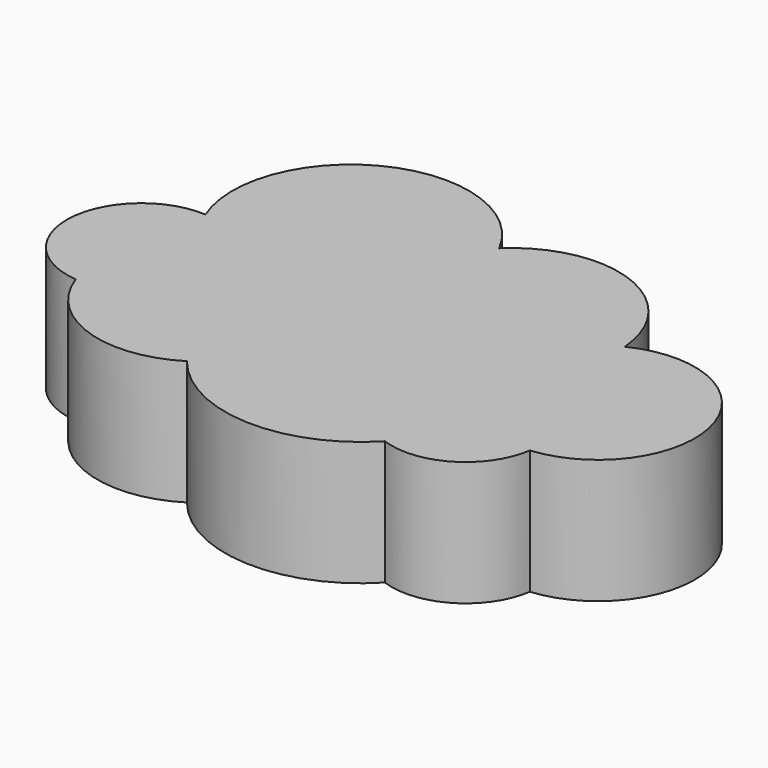
from build123d import *

# Parameters (mm, degrees)
F1_DEPTH = 25.4


with BuildPart() as f1:
    # F0 (on Top) → F1 (new body)
    with BuildSketch(Plane.XY):
        with BuildLine():
            ThreePointArc((25.886897, 49.217663), (-5.663544, 60.101383), (-17.951045, 29.070704))
            ThreePointArc((-17.951045, 29.070704), (-34.049609, 14.955863), (-20.126315, -1.308651))
            ThreePointArc((-20.126315, -1.308651), (-7.030762, -14.395994), (11.365135, -12.307204))
            ThreePointArc((11.365135, -12.307204), (31.891452, -22.822602), (53.273053, -14.177928))
            ThreePointArc((53.273053, -14.177928), (66.117401, -12.947444), (73.30491, -2.231518))
            ThreePointArc((73.30491, -2.231518), (90.495457, 22.80601), (62.75648, 35.172974))
            ThreePointArc((62.75648, 35.172974), (48.776926, 53.891039), (25.886897, 49.217663))
        make_face()
    extrude(amount=F1_DEPTH)


solid = f1.part
